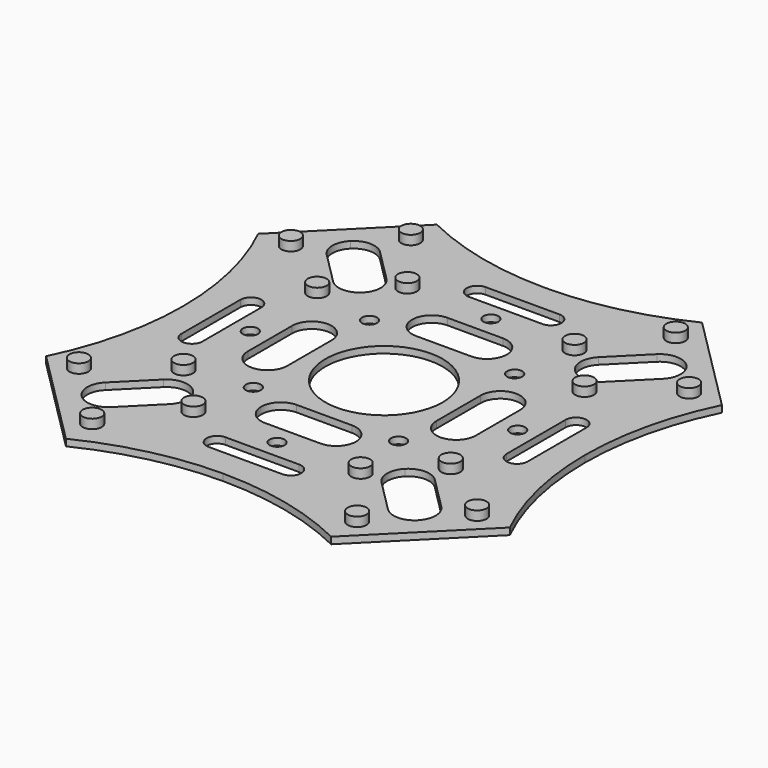
from build123d import *

# Parameters (mm, degrees)
F0_R     = 14
F1_DEPTH = 1.6
F2_R     = 2.25
F3_DEPTH = 2.2


with BuildPart() as f1:
    # F0 (on Top) → F1 (new body)
    with BuildSketch(Plane.XY):
        with BuildLine():
            Line((55.331106, 31.643028), (43.487067, 43.487067))
            Line((43.487067, 43.487067), (31.643028, 55.331106))
            ThreePointArc((31.643028, 55.331106), (16.240585, 49.856732), (0, 48))
            ThreePointArc((0, 48), (-16.240585, 49.856732), (-31.643028, 55.331106))
            Line((-31.643028, 55.331106), (-43.487067, 43.487067))
            Line((-43.487067, 43.487067), (-55.331106, 31.643028))
            ThreePointArc((-55.331106, 31.643028), (-49.856732, 16.240585), (-48, 0))
            ThreePointArc((-48, 0), (-49.856732, -16.240585), (-55.331106, -31.643028))
            Line((-55.331106, -31.643028), (-43.487067, -43.487067))
            Line((-43.487067, -43.487067), (-31.643028, -55.331106))
            ThreePointArc((-31.643028, -55.331106), (-16.240585, -49.856732), (0, -48))
            ThreePointArc((0, -48), (16.240585, -49.856732), (31.643028, -55.331106))
            Line((31.643028, -55.331106), (43.487067, -43.487067))
            Line((43.487067, -43.487067), (55.331106, -31.643028))
            ThreePointArc((55.331106, -31.643028), (49.856732, -16.240585), (48, 0))
            ThreePointArc((48, 0), (49.856732, 16.240585), (55.331106, 31.643028))
        make_face()
        with BuildLine():
            ThreePointArc((-40.092954, -40.092954), (-41.557421, -36.557421), (-40.092954, -33.021887))
            Line((-40.092954, -33.021887), (-32.385491, -25.314423))
            ThreePointArc((-32.385491, -25.314423), (-28.849957, -23.849957), (-25.314423, -25.314423))
            ThreePointArc((-25.314423, -25.314423), (-23.849957, -28.849957), (-25.314423, -32.385491))
            Line((-25.314423, -32.385491), (-33.021887, -40.092954))
            ThreePointArc((-33.021887, -40.092954), (-36.557421, -41.557421), (-40.092954, -40.092954))
        make_face(mode=Mode.SUBTRACT)
        with BuildLine():
            Line((8.8, -41.3), (0, -41.3))
            Line((0, -41.3), (-8.8, -41.3))
            ThreePointArc((-8.8, -41.3), (-11.3, -38.8), (-8.8, -36.3))
            Line((-8.8, -36.3), (0, -36.3))
            Line((0, -36.3), (8.8, -36.3))
            ThreePointArc((8.8, -36.3), (11.3, -38.8), (8.8, -41.3))
        make_face(mode=Mode.SUBTRACT)
        with BuildLine():
            ThreePointArc((0, -30.1), (1.8, -31.9), (0, -33.7))
            ThreePointArc((0, -33.7), (-1.8, -31.9), (0, -30.1))
        make_face(mode=Mode.SUBTRACT)
        with BuildLine():
            ThreePointArc((-18.596908, -18.596908), (-18.596908, -16.051324), (-16.051324, -16.051324))
            ThreePointArc((-16.051324, -16.051324), (-16.051324, -18.596908), (-18.596908, -18.596908))
        make_face(mode=Mode.SUBTRACT)
        with BuildLine():
            Line((6.6, -27.2), (0, -27.2))
            Line((0, -27.2), (-6.6, -27.2))
            ThreePointArc((-6.6, -27.2), (-11.3, -22.5), (-6.6, -17.8))
            Line((-6.6, -17.8), (0, -17.8))
            Line((0, -17.8), (6.6, -17.8))
            ThreePointArc((6.6, -17.8), (11.3, -22.5), (6.6, -27.2))
        make_face(mode=Mode.SUBTRACT)
        with BuildLine():
            ThreePointArc((25.314423, -25.314423), (28.849957, -23.849957), (32.385491, -25.314423))
            Line((32.385491, -25.314423), (40.092954, -33.021887))
            ThreePointArc((40.092954, -33.021887), (41.557421, -36.557421), (40.092954, -40.092954))
            ThreePointArc((40.092954, -40.092954), (36.557421, -41.557421), (33.021887, -40.092954))
            Line((33.021887, -40.092954), (25.314423, -32.385491))
            ThreePointArc((25.314423, -32.385491), (23.849957, -28.849957), (25.314423, -25.314423))
        make_face(mode=Mode.SUBTRACT)
        with BuildLine():
            ThreePointArc((18.596908, -18.596908), (16.051324, -18.596908), (16.051324, -16.051324))
            ThreePointArc((16.051324, -16.051324), (18.596908, -16.051324), (18.596908, -18.596908))
        make_face(mode=Mode.SUBTRACT)
        with BuildLine():
            Line((-36.3, 8.8), (-36.3, 0))
            Line((-36.3, 0), (-36.3, -8.8))
            ThreePointArc((-36.3, -8.8), (-38.8, -11.3), (-41.3, -8.8))
            Line((-41.3, -8.8), (-41.3, 0))
            Line((-41.3, 0), (-41.3, 8.8))
            ThreePointArc((-41.3, 8.8), (-38.8, 11.3), (-36.3, 8.8))
        make_face(mode=Mode.SUBTRACT)
        with BuildLine():
            ThreePointArc((-30.1, 0), (-31.9, -1.8), (-33.7, 0))
            ThreePointArc((-33.7, 0), (-31.9, 1.8), (-30.1, 0))
        make_face(mode=Mode.SUBTRACT)
        with BuildLine():
            ThreePointArc((-17.8, -6.6), (-22.5, -11.3), (-27.2, -6.6))
            Line((-27.2, -6.6), (-27.2, 0))
            Line((-27.2, 0), (-27.2, 6.6))
            ThreePointArc((-27.2, 6.6), (-22.5, 11.3), (-17.8, 6.6))
            Line((-17.8, 6.6), (-17.8, 0))
            Line((-17.8, 0), (-17.8, -6.6))
        make_face(mode=Mode.SUBTRACT)
        Circle(F0_R, mode=Mode.SUBTRACT)
        with BuildLine():
            ThreePointArc((-18.596908, 18.596908), (-16.051324, 18.596908), (-16.051324, 16.051324))
            ThreePointArc((-16.051324, 16.051324), (-18.596908, 16.051324), (-18.596908, 18.596908))
        make_face(mode=Mode.SUBTRACT)
        with BuildLine():
            Line((0, 27.2), (6.6, 27.2))
            ThreePointArc((6.6, 27.2), (11.3, 22.5), (6.6, 17.8))
            Line((6.6, 17.8), (0, 17.8))
            Line((0, 17.8), (-6.6, 17.8))
            ThreePointArc((-6.6, 17.8), (-11.3, 22.5), (-6.6, 27.2))
            Line((-6.6, 27.2), (0, 27.2))
        make_face(mode=Mode.SUBTRACT)
        with BuildLine():
            Line((-33.021887, 40.092954), (-25.314423, 32.385491))
            ThreePointArc((-25.314423, 32.385491), (-23.849957, 28.849957), (-25.314423, 25.314423))
            ThreePointArc((-25.314423, 25.314423), (-28.849957, 23.849957), (-32.385491, 25.314423))
            Line((-32.385491, 25.314423), (-40.092954, 33.021887))
            ThreePointArc((-40.092954, 33.021887), (-41.557421, 36.557421), (-40.092954, 40.092954))
            ThreePointArc((-40.092954, 40.092954), (-36.557421, 41.557421), (-33.021887, 40.092954))
        make_face(mode=Mode.SUBTRACT)
        with BuildLine():
            ThreePointArc((0, 30.1), (-1.8, 31.9), (0, 33.7))
            ThreePointArc((0, 33.7), (1.8, 31.9), (0, 30.1))
        make_face(mode=Mode.SUBTRACT)
        with BuildLine():
            Line((8.8, 36.3), (0, 36.3))
            Line((0, 36.3), (-8.8, 36.3))
            ThreePointArc((-8.8, 36.3), (-11.3, 38.8), (-8.8, 41.3))
            Line((-8.8, 41.3), (0, 41.3))
            Line((0, 41.3), (8.8, 41.3))
            ThreePointArc((8.8, 41.3), (11.3, 38.8), (8.8, 36.3))
        make_face(mode=Mode.SUBTRACT)
        with BuildLine():
            Line((17.8, -6.6), (17.8, 0))
            Line((17.8, 0), (17.8, 6.6))
            ThreePointArc((17.8, 6.6), (22.5, 11.3), (27.2, 6.6))
            Line((27.2, 6.6), (27.2, 0))
            Line((27.2, 0), (27.2, -6.6))
            ThreePointArc((27.2, -6.6), (22.5, -11.3), (17.8, -6.6))
        make_face(mode=Mode.SUBTRACT)
        with BuildLine():
            ThreePointArc((18.596908, 18.596908), (18.596908, 16.051324), (16.051324, 16.051324))
            ThreePointArc((16.051324, 16.051324), (16.051324, 18.596908), (18.596908, 18.596908))
        make_face(mode=Mode.SUBTRACT)
        with BuildLine():
            ThreePointArc((30.1, 0), (31.9, 1.8), (33.7, 0))
            ThreePointArc((33.7, 0), (31.9, -1.8), (30.1, 0))
        make_face(mode=Mode.SUBTRACT)
        with BuildLine():
            Line((36.3, -8.8), (36.3, 0))
            Line((36.3, 0), (36.3, 8.8))
            ThreePointArc((36.3, 8.8), (38.8, 11.3), (41.3, 8.8))
            Line((41.3, 8.8), (41.3, 0))
            Line((41.3, 0), (41.3, -8.8))
            ThreePointArc((41.3, -8.8), (38.8, -11.3), (36.3, -8.8))
        make_face(mode=Mode.SUBTRACT)
        with BuildLine():
            Line((40.092954, 33.021887), (32.385491, 25.314423))
            ThreePointArc((32.385491, 25.314423), (28.849957, 23.849957), (25.314423, 25.314423))
            ThreePointArc((25.314423, 25.314423), (23.849957, 28.849957), (25.314423, 32.385491))
            Line((25.314423, 32.385491), (33.021887, 40.092954))
            ThreePointArc((33.021887, 40.092954), (36.557421, 41.557421), (40.092954, 40.092954))
            ThreePointArc((40.092954, 40.092954), (41.557421, 36.557421), (40.092954, 33.021887))
        make_face(mode=Mode.SUBTRACT)
    extrude(amount=F1_DEPTH)

    # F2 (on face) → F3 (join)
    with BuildSketch(Plane.XY.offset(1.6)):
        with Locations((31.9, 19.95)):
            Circle(F2_R)
        with Locations((47.525639, 31.615736)):
            Circle(F2_R)
        with Locations((31.615736, 47.525639)):
            Circle(F2_R)
        with Locations((19.95, 31.9)):
            Circle(F2_R)
        with Locations((47.525639, -31.615736)):
            Circle(F2_R)
        with Locations((31.9, -19.95)):
            Circle(F2_R)
        with Locations((19.95, -31.9)):
            Circle(F2_R)
        with Locations((31.615736, -47.525639)):
            Circle(F2_R)
        with Locations((-31.9, -19.95)):
            Circle(F2_R)
        with Locations((-31.9, 19.95)):
            Circle(F2_R)
        with Locations((-47.525639, -31.615736)):
            Circle(F2_R)
        with Locations((-31.615736, 47.525639)):
            Circle(F2_R)
        with Locations((-47.525639, 31.615736)):
            Circle(F2_R)
        with Locations((-31.615736, -47.525639)):
            Circle(F2_R)
        with Locations((-19.95, 31.9)):
            Circle(F2_R)
        with Locations((-19.95, -31.9)):
            Circle(F2_R)
    extrude(amount=F3_DEPTH)


solid = f1.part
